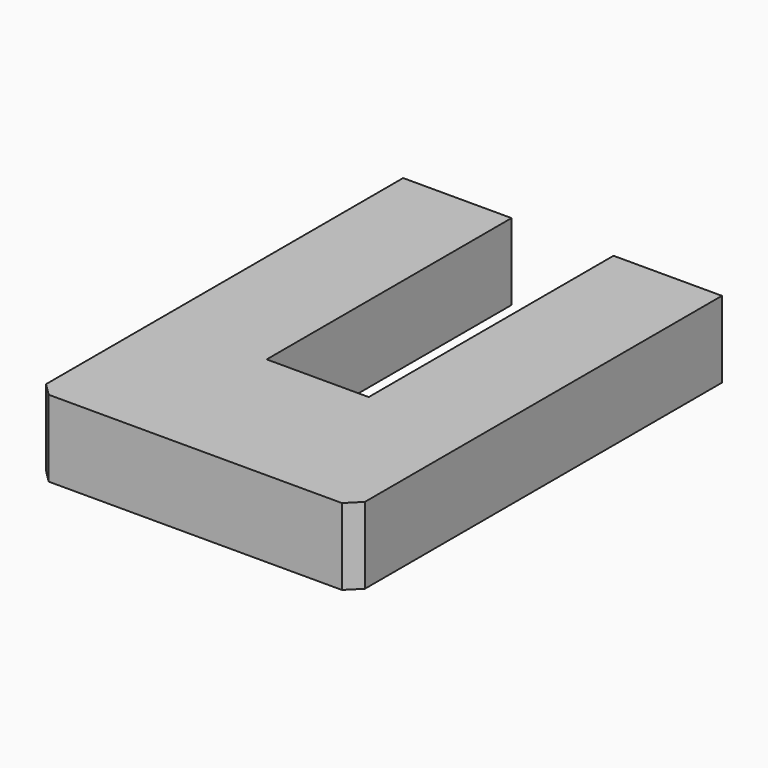
from build123d import *

# Parameters (mm, degrees)
BOX022_W           = 16
BOX022_H           = 49
BOX022_DEPTH       = 12
BOX001_W           = 50
BOX001_H           = 72
BOX001_DEPTH       = 12
CHAMFER005002_SIZE = 2


with BuildPart() as middle_cut:
    # Box022 → Box022 (new body)
    with BuildSketch(Plane(origin=(12, -28, 40), x_dir=(1, 0, 0), z_dir=(0, 0, 1))):
        with Locations((8, 24.5)):
            Rectangle(BOX022_W, BOX022_H)
    extrude(amount=BOX022_DEPTH)


with BuildPart() as cut:
    # Box001 → Box001 (new body)
    with BuildSketch(Plane(origin=(-5, -52, 40), x_dir=(1, 0, 0), z_dir=(0, 0, 1))):
        with Locations((25, 36)):
            Rectangle(BOX001_W, BOX001_H)
    extrude(amount=BOX001_DEPTH)

    # Chamfer005002
    chamfer005002_edges = [cut.edges().sort_by_distance(p)[0] for p in [
        (-5, -52, 46),
        (45, -52, 46),
    ]]
    chamfer(chamfer005002_edges, length=CHAMFER005002_SIZE)

    # Cut: cut middle-cut
    add(middle_cut.part, mode=Mode.SUBTRACT)


solid = cut.part
